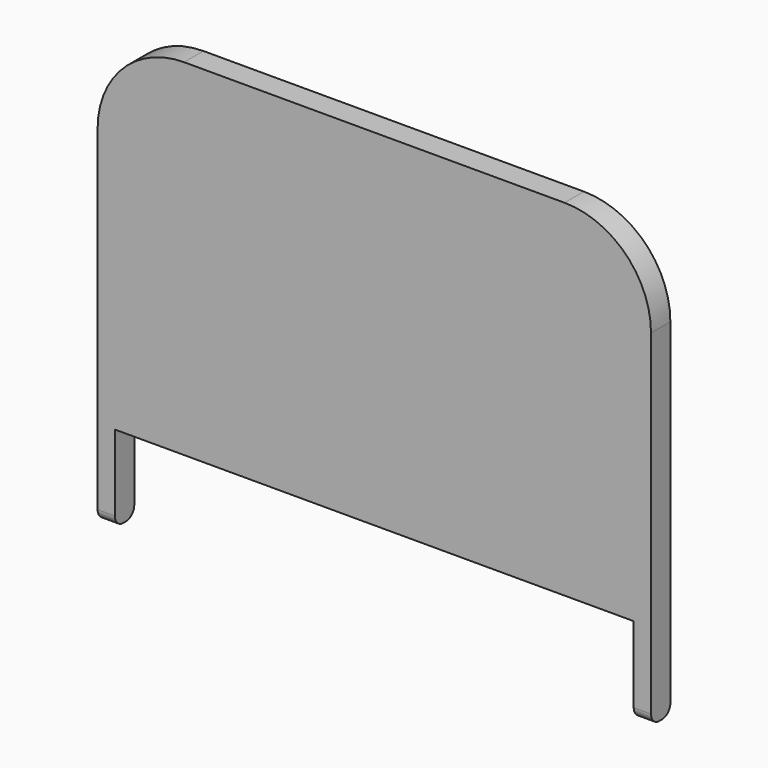
from build123d import *

# Parameters (mm, degrees)
F0_W          = 7
F0_H          = 100
F1_DEPTH      = 75
F1_DEPTH_BACK = 75
F2_W          = 7
F2_H          = 125
F3_DEPTH      = 5
F5_R          = 25
F6_R          = 3


with BuildPart() as f1:
    # F0 (on Right) → F1 (new body, two sides)
    with BuildSketch(Plane.YZ) as f1_sk:
        Rectangle(F0_W, F0_H)
    extrude(amount=F1_DEPTH)
    extrude(f1_sk.sketch, amount=-F1_DEPTH_BACK)

    # F2 (on face) → F3 (join)
    with BuildSketch(Plane.YZ.offset(75)):
        with Locations((0, -12.5)):
            Rectangle(F2_W, F2_H)
    extrude(amount=F3_DEPTH)

    # F4: F1 across plane


with BuildPart() as f1_1:
    add(f1.part)
    add(f1.part.mirror(Plane.YZ))

    # F5
    f5_edges = [f1_1.edges().sort_by_distance(p)[0] for p in [
        (-80, 0, 50),
        (80, 0, 50),
    ]]
    fillet(f5_edges, radius=F5_R)

    # F6
    f6_edges = [f1_1.edges().sort_by_distance(p)[0] for p in [
        (-77.5, -3.5, -75),
        (77.5, -3.5, -75),
        (-77.5, 3.5, -75),
        (77.5, 3.5, -75),
    ]]
    fillet(f6_edges, radius=F6_R)


solid = f1_1.part
